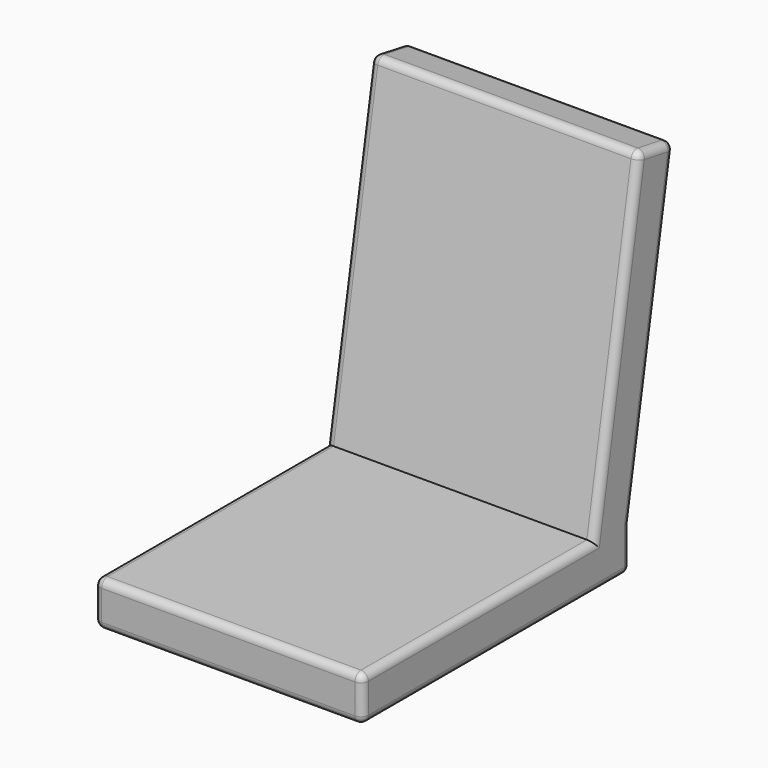
from build123d import *

# Parameters (mm, degrees)
F0_W     = 360
F0_H     = 450
F1_DEPTH = 60
F3_DEPTH = 360
F4_R     = 10


with BuildPart() as f1:
    # F0 (on Top) → F1 (new body)
    with BuildSketch(Plane.XY):
        Rectangle(F0_W, F0_H)
    extrude(amount=F1_DEPTH)

    # F2 (on face) → F3 (join, through all)
    with BuildSketch(Plane(origin=(-180, 0, 0), x_dir=(0, -1, 0), z_dir=(-1, 0, 0))):
        Polygon((-298.98347, 479.581109), (-225, 60), (-164.074403, 60), (-239.895005, 490), align=None)
    extrude(amount=-F3_DEPTH)

    # F4
    f4_edges = [f1.edges().sort_by_distance(p)[0] for p in [
        (-180, 225, 30),
        (-180, 261.991735, 269.790555),
        (-180, 269.439238, 484.790555),
        (-180, 201.984704, 275),
        (-180, -30.462798, 60),
        (-180, -225, 30),
        (-180, 0, 0),
        (180, -225, 30),
        (180, -30.462798, 60),
        (180, 201.984704, 275),
        (180, 269.439238, 484.790555),
        (180, 261.991735, 269.790555),
        (180, 225, 30),
        (180, 0, 0),
        (0, -225, 0),
        (0, -225, 60),
        (0, 239.895005, 490),
        (0, 298.98347, 479.581109),
        (0, 225, 0),
    ]]
    fillet(f4_edges, radius=F4_R)


solid = f1.part
